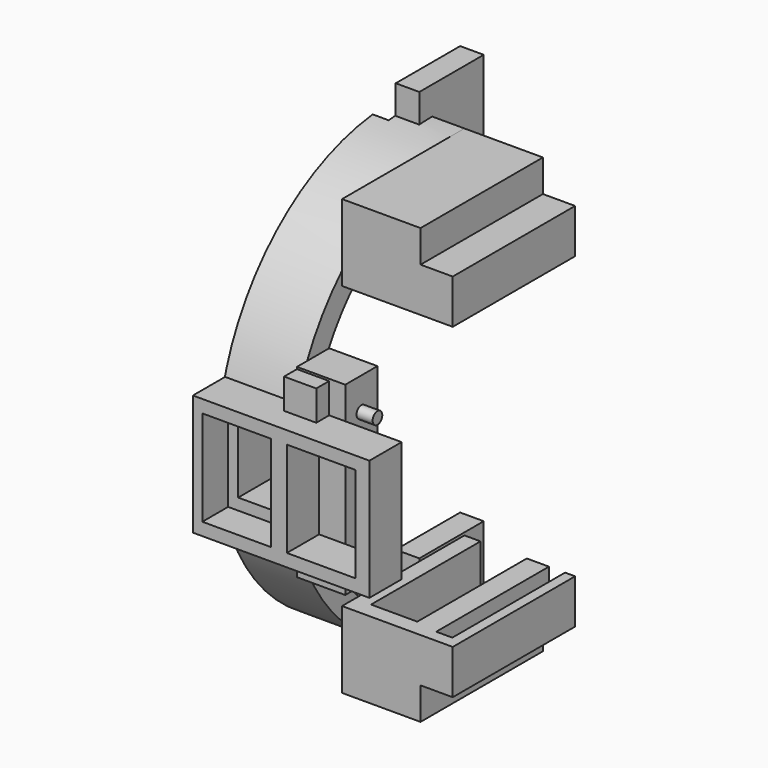
from build123d import *

# Parameters (mm, degrees)
SKETCH062_W                               = 12
SKETCH062_H                               = 12
EXTRUDE035_DEPTH                          = 2
SKETCH061_W                               = 12
SKETCH061_H                               = 12
EXTRUDE034_DEPTH                          = 2
SKETCH029_AS_DRAWN_W                      = 4
SKETCH029_AS_DRAWN_H                      = 4
EXTRUDE021_DEPTH                          = 2
EXTRUDE021_ONTO_SKETCH029_ROLL_ANGLE      = 90
SKETCH020_W                               = 10
SKETCH020_H                               = 10
EXTRUDE014_DEPTH                          = 2.93
SKETCH018_W                               = 10
SKETCH018_H                               = 10
EXTRUDE013_DEPTH                          = 2.93
SKETCH016_AS_DRAWN_W                      = 5
SKETCH016_AS_DRAWN_H                      = 9
EXTRUDE009_DEPTH                          = 7
EXTRUDE009_ONTO_SKETCH016_ROLL_ANGLE      = 90
EXTRUDE009_ONTO_SKETCH016_PLACEMENT_ANGLE = 180
SKETCH013_AS_DRAWN_W                      = 8.5
SKETCH013_AS_DRAWN_H                      = 11.85
EXTRUDE011_DEPTH                          = 4
EXTRUDE011_ONTO_SKETCH013_ROLL_ANGLE      = 90
EXTRUDE011_ONTO_SKETCH013_PLACEMENT_ANGLE = 180
SKETCH015_AS_DRAWN_W                      = 10.75
SKETCH015_AS_DRAWN_H                      = 15
EXTRUDE010_DEPTH                          = 5
EXTRUDE010_ONTO_SKETCH015_ROLL_ANGLE      = 90
EXTRUDE010_ONTO_SKETCH015_PLACEMENT_ANGLE = 180
SKETCH017_AS_DRAWN_W                      = 5
SKETCH017_AS_DRAWN_H                      = 12
EXTRUDE008_DEPTH                          = 5
EXTRUDE008_ONTO_SKETCH017_ROLL_ANGLE      = 90
EXTRUDE008_ONTO_SKETCH017_PLACEMENT_ANGLE = 180
SKETCH012_W                               = 20
SKETCH012_H                               = 35
EXTRUDE007_DEPTH                          = 14
SKETCH007_R                               = 24
EXTRUDE006_DEPTH                          = 9
SKETCH011_W                               = 35
SKETCH011_H                               = 42
EXTRUDE005_DEPTH                          = 2
FILLET002_R                               = 0.5
SKETCH010_W                               = 19
SKETCH010_H                               = 46
EXTRUDE004_DEPTH                          = 4.25
SKETCH009_W                               = 34
SKETCH009_H                               = 51
EXTRUDE003_DEPTH                          = 5.75
FILLET001_R                               = 1
SKETCH008_W                               = 19
SKETCH008_H                               = 54
EXTRUDE002_DEPTH                          = 9.75
SKETCH006_R                               = 25.25
EXTRUDE001_DEPTH                          = 1
FILLET_R                                  = 0.25
EXTRUDE_DEPTH                             = 9
CUT_ROLL_ANGLE                            = -90
SKETCH025_R                               = 0.75
EXTRUDE017_DEPTH                          = 2
SKETCH028_AS_DRAWN_W                      = 8.5
SKETCH028_AS_DRAWN_H                      = 11.85
EXTRUDE020_DEPTH                          = 5
EXTRUDE020_ONTO_SKETCH028_ROLL_ANGLE      = 90
EXTRUDE020_ONTO_SKETCH028_PLACEMENT_ANGLE = 180
SKETCH027_AS_DRAWN_W                      = 11.25
SKETCH027_AS_DRAWN_H                      = 15
EXTRUDE019_DEPTH                          = 5
EXTRUDE019_ONTO_SKETCH027_ROLL_ANGLE      = 90
EXTRUDE019_ONTO_SKETCH027_PLACEMENT_ANGLE = 180
SKETCH019_AS_DRAWN_W                      = 6
SKETCH019_AS_DRAWN_H                      = 23
EXTRUDE012_DEPTH                          = 5
EXTRUDE012_ONTO_SKETCH019_ROLL_ANGLE      = 90


with BuildPart() as extrude035:
    # Sketch062 → Extrude035 (new body)
    with BuildSketch(Plane(origin=(-21, 0, 0), x_dir=(0, -1, 0), z_dir=(-1, 0, 0))):
        with Locations((-3, 25.5)):
            Rectangle(SKETCH062_W, SKETCH062_H)
    extrude(amount=EXTRUDE035_DEPTH)


with BuildPart() as extrude034:
    # Sketch061 → Extrude034 (new body)
    with BuildSketch(Plane(origin=(-21, 0, 0), x_dir=(0, -1, 0), z_dir=(-1, 0, 0))):
        with Locations((-3, -25.5)):
            Rectangle(SKETCH061_W, SKETCH061_H)
    extrude(amount=EXTRUDE034_DEPTH)


with BuildPart() as reset_standoff:
    # Sketch029 as drawn → Extrude021 (new)
    with BuildSketch(Plane.XY):
        with Locations((-12, 9.25)):
            Rectangle(SKETCH029_AS_DRAWN_W, SKETCH029_AS_DRAWN_H)
    extrude(amount=-EXTRUDE021_DEPTH)


with BuildPart() as reset_standoff_1:
    # Extrude021 onto Sketch029 roll: moved
    add(reset_standoff.part.rotate(Axis((0, 0, 0), (1, 0, 0)), EXTRUDE021_ONTO_SKETCH029_ROLL_ANGLE))


with BuildPart() as reset_standoff_2:
    # Extrude021 onto Sketch029 placement: moved
    add(reset_standoff_1.part.moved(Location((0, -28, 0))))


with BuildPart() as momentary_mount:
    # Sketch020 → Extrude014 (new body)
    with BuildSketch(Plane(origin=(-18, 0, 0), x_dir=(0, -1, 0), z_dir=(-1, 0, 0))):
        with Locations((-3, -25.5)):
            Rectangle(SKETCH020_W, SKETCH020_H)
    extrude(amount=EXTRUDE014_DEPTH)


with BuildPart() as pwr_button_mount:
    # Sketch018 → Extrude013 (new body)
    with BuildSketch(Plane(origin=(-18, 0, 0), x_dir=(0, -1, 0), z_dir=(-1, 0, 0))):
        with Locations((-3, 25.5)):
            Rectangle(SKETCH018_W, SKETCH018_H)
    extrude(amount=EXTRUDE013_DEPTH)


with BuildPart() as extrude009:
    # Sketch016 as drawn → Extrude009 (new)
    with BuildSketch(Plane.XY):
        with Locations((18, 0)):
            Rectangle(SKETCH016_AS_DRAWN_W, SKETCH016_AS_DRAWN_H)
    extrude(amount=-EXTRUDE009_DEPTH)


with BuildPart() as extrude009_1:
    # Extrude009 onto Sketch016 roll: moved
    add(extrude009.part.rotate(Axis((0, 0, 0), (1, 0, 0)), EXTRUDE009_ONTO_SKETCH016_ROLL_ANGLE))


with BuildPart() as extrude009_2:
    # Extrude009 onto Sketch016 placement: moved
    add(extrude009_1.part.moved(Location((0, -21, 0))).rotate(Axis((0, -21, 0), (0, 0, 1)), EXTRUDE009_ONTO_SKETCH016_PLACEMENT_ANGLE))


with BuildPart() as charge_port_cuts:
    # Sketch013 as drawn → Extrude011 (new)
    with BuildSketch(Plane.XY):
        with Locations((17.5, 0)):
            Rectangle(SKETCH013_AS_DRAWN_W, SKETCH013_AS_DRAWN_H)
    extrude(amount=EXTRUDE011_DEPTH)


with BuildPart() as charge_port_cuts_1:
    # Extrude011 onto Sketch013 roll: moved
    add(charge_port_cuts.part.rotate(Axis((0, 0, 0), (1, 0, 0)), EXTRUDE011_ONTO_SKETCH013_ROLL_ANGLE))


with BuildPart() as charge_port_cuts_2:
    # Extrude011 onto Sketch013 placement: moved
    add(charge_port_cuts_1.part.moved(Location((0, -31, 0))).rotate(Axis((0, -31, 0), (0, 0, 1)), EXTRUDE011_ONTO_SKETCH013_PLACEMENT_ANGLE))

    # Fusion004: union Extrude009
    add(extrude009_2.part)


with BuildPart() as extrude010:
    # Sketch015 as drawn → Extrude010 (new)
    with BuildSketch(Plane.XY):
        with Locations((17.55, 0)):
            Rectangle(SKETCH015_AS_DRAWN_W, SKETCH015_AS_DRAWN_H)
    extrude(amount=-EXTRUDE010_DEPTH)


with BuildPart() as extrude010_1:
    # Extrude010 onto Sketch015 roll: moved
    add(extrude010.part.rotate(Axis((0, 0, 0), (1, 0, 0)), EXTRUDE010_ONTO_SKETCH015_ROLL_ANGLE))


with BuildPart() as extrude010_2:
    # Extrude010 onto Sketch015 placement: moved
    add(extrude010_1.part.moved(Location((0, -26, 0))).rotate(Axis((0, -26, 0), (0, 0, 1)), EXTRUDE010_ONTO_SKETCH015_PLACEMENT_ANGLE))


with BuildPart() as charge_port_walls:
    # Sketch017 as drawn → Extrude008 (new)
    with BuildSketch(Plane.XY):
        with Locations((19, 0)):
            Rectangle(SKETCH017_AS_DRAWN_W, SKETCH017_AS_DRAWN_H)
    extrude(amount=EXTRUDE008_DEPTH)


with BuildPart() as charge_port_walls_1:
    # Extrude008 onto Sketch017 roll: moved
    add(charge_port_walls.part.rotate(Axis((0, 0, 0), (1, 0, 0)), EXTRUDE008_ONTO_SKETCH017_ROLL_ANGLE))


with BuildPart() as charge_port_walls_2:
    # Extrude008 onto Sketch017 placement: moved
    add(charge_port_walls_1.part.moved(Location((0, -26, 0))).rotate(Axis((0, -26, 0), (0, 0, 1)), EXTRUDE008_ONTO_SKETCH017_PLACEMENT_ANGLE))

    # Fusion002: union Extrude010
    add(extrude010_2.part)


with BuildPart() as extrude007:
    # Sketch012 → Extrude007 (new body)
    with BuildSketch(Plane(origin=(0, 0, 0), x_dir=(0, -1, 0), z_dir=(-1, 0, 0))):
        with Locations((10, 0)):
            Rectangle(SKETCH012_W, SKETCH012_H)
    extrude(amount=-EXTRUDE007_DEPTH)


with BuildPart() as fusion001:
    # Sketch007 → Extrude006 (new body)
    with BuildSketch(Plane(origin=(-9, 0, 0), x_dir=(0, -1, 0), z_dir=(-1, 0, 0))):
        Circle(SKETCH007_R)
    extrude(amount=-EXTRUDE006_DEPTH)

    # Fusion001: union Extrude007
    add(extrude007.part)


with BuildPart() as fillet002:
    # Sketch011 → Extrude005 (new body)
    with BuildSketch(Plane(origin=(10.5, 0, 0), x_dir=(0, -1, 0), z_dir=(-1, 0, 0))):
        Rectangle(SKETCH011_W, SKETCH011_H)
    extrude(amount=-EXTRUDE005_DEPTH)

    # Fillet002
    fillet002_edges = [fillet002.edges().sort_by_distance(p)[0] for p in [
        (11.5, 17.5, 21),
        (11.5, -17.5, 21),
        (10.5, 0, 21),
        (12.5, 0, 21),
        (11.5, -17.5, -21),
        (11.5, 17.5, -21),
        (10.5, 0, -21),
        (12.5, 0, -21),
    ]]
    fillet(fillet002_edges, radius=FILLET002_R)


with BuildPart() as motorboard:
    # Sketch010 → Extrude004 (new body)
    with BuildSketch(Plane(origin=(9.5, 0, 0), x_dir=(0, -1, 0), z_dir=(-1, 0, 0))):
        with Locations((9.5, 0)):
            Rectangle(SKETCH010_W, SKETCH010_H)
    extrude(amount=-EXTRUDE004_DEPTH)

    # Cut002: cut Fillet002
    add(fillet002.part, mode=Mode.SUBTRACT)


with BuildPart() as fillet001:
    # Sketch009 → Extrude003 (new body)
    with BuildSketch(Plane(origin=(2, 0, 0), x_dir=(0, -1, 0), z_dir=(-1, 0, 0))):
        Rectangle(SKETCH009_W, SKETCH009_H)
    extrude(amount=-EXTRUDE003_DEPTH)

    # Fillet001
    fillet001_edges = [fillet001.edges().sort_by_distance(p)[0] for p in [
        (4.875, 17, 25.5),
        (4.875, -17, 25.5),
        (2, 0, 25.5),
        (7.75, 0, 25.5),
        (4.875, -17, -25.5),
        (4.875, 17, -25.5),
        (2, 0, -25.5),
        (7.75, 0, -25.5),
    ]]
    fillet(fillet001_edges, radius=FILLET001_R)


with BuildPart() as battery:
    # Sketch008 → Extrude002 (new body)
    with BuildSketch(Plane(origin=(0, 0, 0), x_dir=(0, -1, 0), z_dir=(-1, 0, 0))):
        with Locations((9.5, 0)):
            Rectangle(SKETCH008_W, SKETCH008_H)
    extrude(amount=-EXTRUDE002_DEPTH)

    # Cut001: cut Fillet001
    add(fillet001.part, mode=Mode.SUBTRACT)


with BuildPart() as fillet_body:
    # Sketch006 → Extrude001 (new body)
    with BuildSketch(Plane(origin=(-1.5, 0, 0), x_dir=(0, -1, 0), z_dir=(-1, 0, 0))):
        Circle(SKETCH006_R)
    extrude(amount=EXTRUDE001_DEPTH)

    # Fillet
    fillet_edges = [fillet_body.edges().sort_by_distance(p)[0] for p in [
        (-1.5, 25.25, 0),
        (-2.5, 25.25, 0),
    ]]
    fillet(fillet_edges, radius=FILLET_R)


with BuildPart() as body_and_charge_port:
    # Sketch005 → Extrude (new body)
    with BuildSketch(Plane(origin=(0, 0, 0), x_dir=(0, -1, 0), z_dir=(-1, 0, 0))):
        with BuildLine():
            ThreePointArc((-27, 0), (0, -27), (27, 0))
            Line((-27, 0), (27, 0))
        make_face()
    extrude(amount=EXTRUDE_DEPTH)

    # Cut: cut Fillet body
    add(fillet_body.part, mode=Mode.SUBTRACT)


with BuildPart() as body_and_charge_port_1:
    # Cut roll: moved
    add(body_and_charge_port.part.rotate(Axis((0, 0, 0), (1, 0, 0)), CUT_ROLL_ANGLE))


with BuildPart() as body_and_charge_port_2:
    # Cut placement: moved
    add(body_and_charge_port_1.part)

    # Fusion: union MotorBoard, Battery
    add(motorboard.part)
    add(battery.part)

    # Cut003: cut Fusion001
    add(fusion001.part, mode=Mode.SUBTRACT)


with BuildPart() as body_and_charge_port_3:
    # Cut003 placement: moved
    add(body_and_charge_port_2.part.moved(Location((-14, 0, 0))))

    # Fusion003: union Charge Port Walls
    add(charge_port_walls_2.part)

    # Cut004: cut Charge Port Cuts
    add(charge_port_cuts_2.part, mode=Mode.SUBTRACT)


with BuildPart() as hacker_port_pegs:
    # Sketch025 → Extrude017 (new body)
    with BuildSketch(Plane.YZ.offset(-8)):
        with Locations((-23.5, 7.5)):
            Circle(SKETCH025_R)
        with Locations((-23.5, -7.5)):
            Circle(SKETCH025_R)
    extrude(amount=EXTRUDE017_DEPTH)


with BuildPart() as hacker_hole_cut001:
    # Sketch028 as drawn → Extrude020 (new)
    with BuildSketch(Plane.XY):
        with Locations((7, 0)):
            Rectangle(SKETCH028_AS_DRAWN_W, SKETCH028_AS_DRAWN_H)
    extrude(amount=EXTRUDE020_DEPTH)


with BuildPart() as hacker_hole_cut001_1:
    # Extrude020 onto Sketch028 roll: moved
    add(hacker_hole_cut001.part.rotate(Axis((0, 0, 0), (1, 0, 0)), EXTRUDE020_ONTO_SKETCH028_ROLL_ANGLE))


with BuildPart() as hacker_hole_cut001_2:
    # Extrude020 onto Sketch028 placement: moved
    add(hacker_hole_cut001_1.part.moved(Location((0, -31, 0))).rotate(Axis((0, -31, 0), (0, 0, 1)), EXTRUDE020_ONTO_SKETCH028_PLACEMENT_ANGLE))


with BuildPart() as cut005:
    # Sketch027 as drawn → Extrude019 (new)
    with BuildSketch(Plane.XY):
        with Locations((6.625, 0)):
            Rectangle(SKETCH027_AS_DRAWN_W, SKETCH027_AS_DRAWN_H)
    extrude(amount=-EXTRUDE019_DEPTH)


with BuildPart() as cut005_1:
    # Extrude019 onto Sketch027 roll: moved
    add(cut005.part.rotate(Axis((0, 0, 0), (1, 0, 0)), EXTRUDE019_ONTO_SKETCH027_ROLL_ANGLE))


with BuildPart() as cut005_2:
    # Extrude019 onto Sketch027 placement: moved
    add(cut005_1.part.moved(Location((0, -26, 0))).rotate(Axis((0, -26, 0), (0, 0, 1)), EXTRUDE019_ONTO_SKETCH027_PLACEMENT_ANGLE))

    # Cut005: cut Hacker hole cut001
    add(hacker_hole_cut001_2.part, mode=Mode.SUBTRACT)


with BuildPart() as part_holder001:
    # Sketch019 as drawn → Extrude012 (new)
    with BuildSketch(Plane.XY):
        with Locations((-11, 0)):
            Rectangle(SKETCH019_AS_DRAWN_W, SKETCH019_AS_DRAWN_H)
    extrude(amount=-EXTRUDE012_DEPTH)


with BuildPart() as part_holder001_1:
    # Extrude012 onto Sketch019 roll: moved
    add(part_holder001.part.rotate(Axis((0, 0, 0), (1, 0, 0)), EXTRUDE012_ONTO_SKETCH019_ROLL_ANGLE))


with BuildPart() as part_holder001_2:
    # Extrude012 onto Sketch019 placement: moved
    add(part_holder001_1.part.moved(Location((0, -26, 0))))

    # Fusion006: union Hacker Port Pegs, Cut005
    add(hacker_port_pegs.part)
    add(cut005_2.part)

    # Fusion007: union Reset Standoff, Momentary Mount, Pwr Button Mount, Body And Charge Port
    add(reset_standoff_2.part)
    add(momentary_mount.part)
    add(pwr_button_mount.part)
    add(body_and_charge_port_3.part)

    # Cut017: cut Extrude034
    add(extrude034.part, mode=Mode.SUBTRACT)

    # Cut018: cut Extrude035
    add(extrude035.part, mode=Mode.SUBTRACT)


with BuildPart() as part_holder001_3:
    # Cut018 placement: moved
    add(part_holder001_2.part.moved(Location((-8, 0, 0))))


solid = part_holder001_3.part
